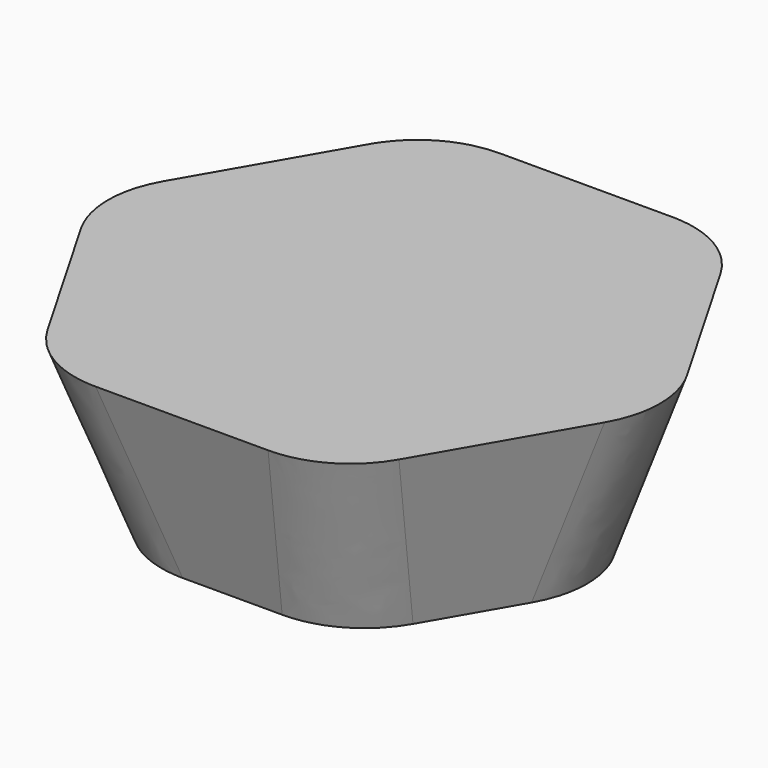
from build123d import *

# Parameters (mm, degrees)
F4_R     = 6
F5_T     = -0.8
F7_DEPTH = 1


with BuildPart() as f3:
    # F0 (on Top) → F3 section 0
    with BuildSketch(Plane.XY):
        Polygon((6, -10.3923048454), (12, 0), (6, 10.3923048454), (-6, 10.3923048454), (-12, 0), (-6, -10.3923048454), align=None)
    # F2 (on offset) → F3 section 1
    with BuildSketch(Plane.XY.offset(10)):
        Polygon((8, -13.8564064606), (16, 0), (8, 13.8564064606), (-8, 13.8564064606), (-16, 0), (-8, -13.8564064606), align=None)
    loft()

    # F4
    f4_edges = [f3.edges().sort_by_distance(p)[0] for p in [
        (-14, 0, 5),
        (-7, 12.124356, 5),
        (7, 12.124356, 5),
        (14, 0, 5),
        (7, -12.124356, 5),
        (-7, -12.124356, 5),
    ]]
    fillet(f4_edges, radius=F4_R)

    # F5 (hollow: no face is removed)
    offset(amount=F5_T, mode=Mode.SUBTRACT)

    # F6 (on face) → F7 (cut)
    with BuildSketch(Plane(origin=(-8.0357142857, -4.639421806, -3.2142857143), x_dir=(0.438664004, -0.8813544771, 0.1754656016), z_dir=(-0.8183170884, -0.4724555913, -0.3273268354))):
        Polygon((7.7442997089, 11.9545258055), (-2.8476304431, 13.9562124545), (-2.8476304431, 4.814203623), (4.4080953156, 3.4430003416), align=None)
    extrude(amount=-F7_DEPTH, mode=Mode.SUBTRACT)


solid = f3.part
